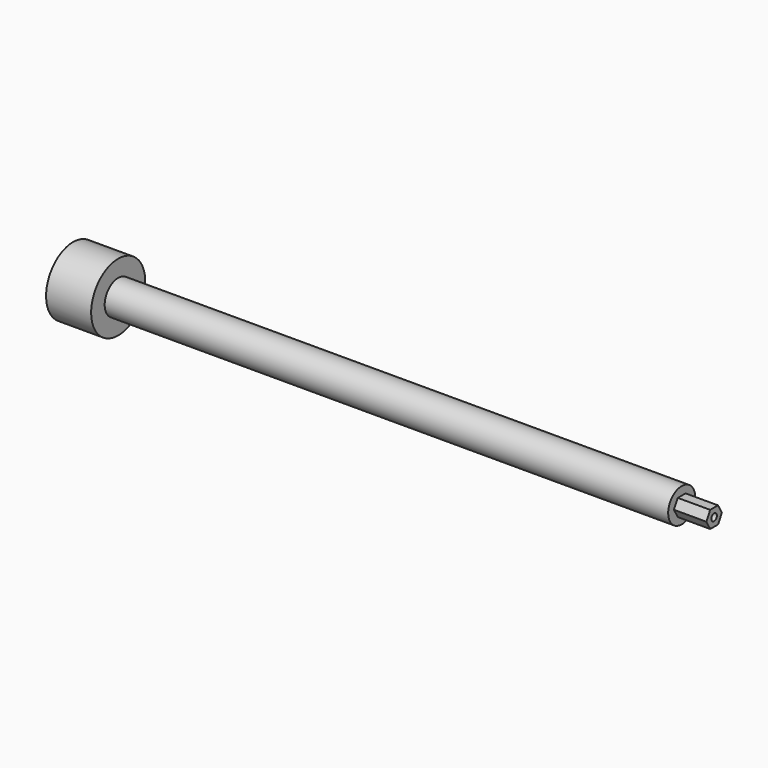
from build123d import *

# Parameters (mm, degrees)
F3_DEPTH = 36.5125
F5_D     = 7.9375
F5_DEPTH = 36.5125
F5_TIP   = 2.3846655818


with BuildPart() as f1:
    # F0 (on Front) → F1 (revolve)
    with BuildSketch(Plane.XZ):
        Polygon((-342.9, 38.1), (-342.9, 0), (342.9, 0), (342.9, 19.05), (-292.1, 19.05), (-292.1, 38.1), align=None)
    revolve(axis=Axis((0, 0, 0), (-1, 0, 0)))

    # F2 (on face) → F3 (join)
    with BuildSketch(Plane.YZ.offset(342.9)):
        Polygon((5.499261314, 9.525), (-5.499261314, 9.525), (-10.9985226281, 0), (-5.499261314, -9.525), (5.499261314, -9.525), (10.9985226281, 0), align=None)
    extrude(amount=F3_DEPTH)

    # F5
    with Locations(Plane.YZ.offset(379.4125)):
        with Locations((0, 0)):
            Hole(F5_D / 2, depth=F5_DEPTH)
            with Locations((0, 0, -(F5_DEPTH + F5_TIP / 2))):  # 118° drill point
                Cone(0, F5_D / 2, F5_TIP, mode=Mode.SUBTRACT)


solid = f1.part
